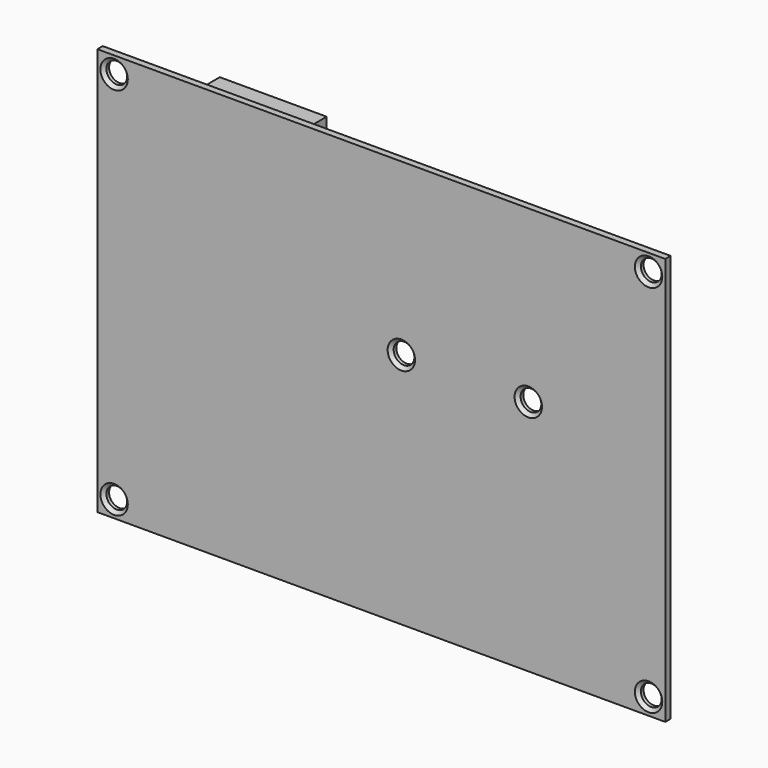
from build123d import *

# Parameters (mm, degrees)
SKETCH009_W  = 84.9897948557
SKETCH009_H  = 61
SKETCH009_R  = 1.55
PAD005_DEPTH = 1
CHAMFER_SIZE = 0.5
PAD007_DEPTH = 16


with BuildPart() as part:
    # Sketch009 → Pad005 (new body)
    with BuildSketch(Plane.XZ):
        with Locations((-36.9948974278, 0)):
            Rectangle(SKETCH009_W, SKETCH009_H)
        with Locations((3, -28)):
            Circle(SKETCH009_R, mode=Mode.SUBTRACT)
        with Locations((3, 28)):
            Circle(SKETCH009_R, mode=Mode.SUBTRACT)
        with Locations((-76.9897948557, 28)):
            Circle(SKETCH009_R, mode=Mode.SUBTRACT)
        with Locations((-76.9897948557, -28)):
            Circle(SKETCH009_R, mode=Mode.SUBTRACT)
        with Locations((-15, 5)):
            Circle(SKETCH009_R, mode=Mode.SUBTRACT)
        with Locations((-34, 5)):
            Circle(SKETCH009_R, mode=Mode.SUBTRACT)
    extrude(amount=PAD005_DEPTH)

    # Chamfer
    chamfer_edges = [part.edges().sort_by_distance(p)[0] for p in [
        (-78.539795, -1, -28),
        (-16.55, -1, 5),
        (1.45, -1, 28),
        (1.45, -1, -28),
        (-78.539795, -1, 28),
        (-35.55, -1, 5),
    ]]
    chamfer(chamfer_edges, length=CHAMFER_SIZE)

    # Sketch011 (on DatumPlane) → Pad007 (join)
    with BuildSketch(Plane(origin=(-51.4897948557, 0, 0), x_dir=(0, 0, -1), z_dir=(-1, 0, 0))):
        Polygon((-27.5, 1), (29.5, 1), (29.5, -6.9), (24.5, -6.9), (24.5, -4.9), (26.5, -4.9), (26.5, -3), (24.5, -3), (24.5, 0), (-22.5, 0), (-22.5, -3), (-24.5, -3), (-24.5, -4.9), (-22.5, -4.9), (-22.5, -6.9), (-27.5, -6.9), align=None)
    extrude(amount=PAD007_DEPTH)


solid = part.part
